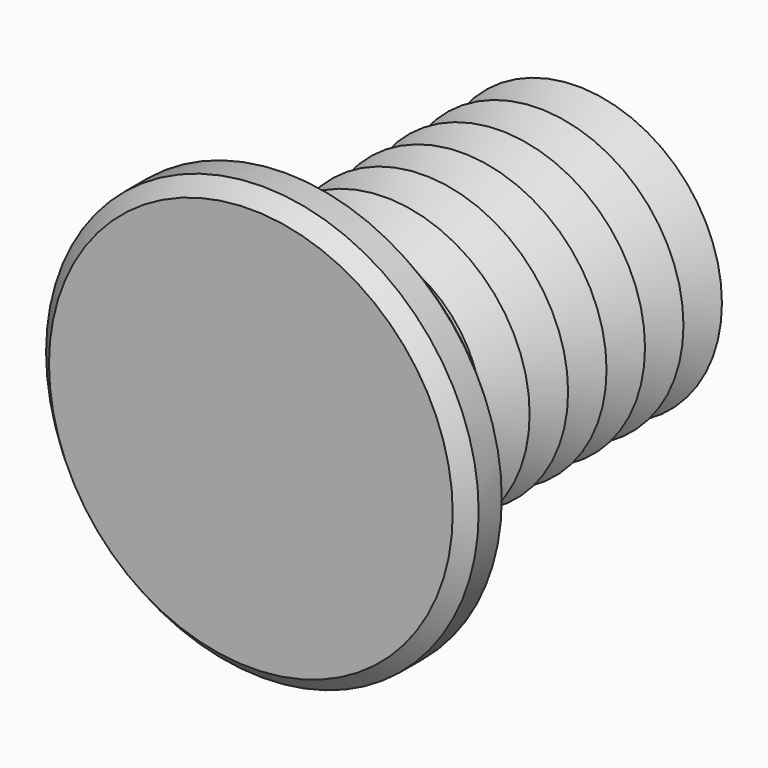
from build123d import *


with BuildPart() as f1:
    # F0 (on Top) → F1 (revolve)
    with BuildSketch(Plane.XY):
        Polygon((0, 15), (0, 0), (7, 0), (7.5, 0.5), (7.5, 1.5), (7, 2), (4, 2), (4, 5), (5, 5.833333), (4, 6.666667), (5, 7.5), (4, 8.333333), (5, 9.166667), (4, 10), (5, 10.833333), (4, 11.666667), (5, 12.5), (4, 13.333333), (5, 14.166667), (4, 15), align=None)
    revolve(axis=Axis((0, 16.373856, 0), (0, 1, 0)))


solid = f1.part
